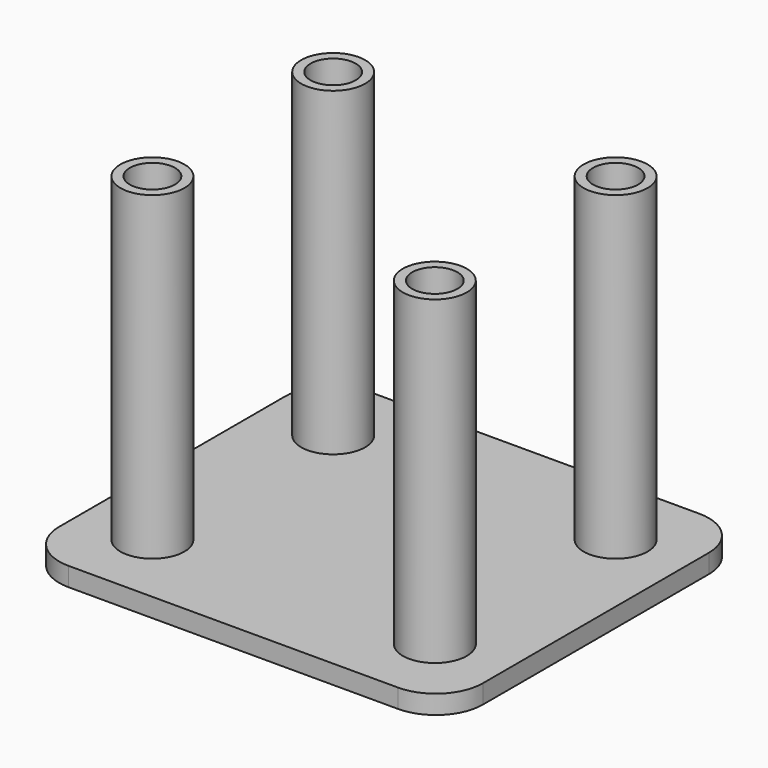
from build123d import *

# Parameters (mm, degrees)
F0_W     = 45
F0_H     = 40
F1_DEPTH = 2
F2_R     = 3.4
F3_DEPTH = 34
F4_R     = 2.4
F5_DEPTH = 30
F6_R     = 5


with BuildPart() as f1:
    # F0 (on Top) → F1 (new body)
    with BuildSketch(Plane.XY):
        Rectangle(F0_W, F0_H)
    extrude(amount=F1_DEPTH)

    # F2 (on face) → F3 (join)
    with BuildSketch(Plane.XY.offset(2)):
        with Locations((-15, 12)):
            Circle(F2_R)
        with Locations((15, 12)):
            Circle(F2_R)
        with Locations((15, -12)):
            Circle(F2_R)
        with Locations((-15, -12)):
            Circle(F2_R)
    extrude(amount=F3_DEPTH)

    # F4 (on face) → F5 (cut)
    with BuildSketch(Plane.XY.offset(36)):
        with Locations((-15, 12)):
            Circle(F4_R)
        with Locations((15, 12)):
            Circle(F4_R)
        with Locations((15, -12)):
            Circle(F4_R)
        with Locations((-15, -12)):
            Circle(F4_R)
    extrude(amount=-F5_DEPTH, mode=Mode.SUBTRACT)

    # F6
    f6_edges = [f1.edges().sort_by_distance(p)[0] for p in [
        (-22.5, -20, 1),
        (22.5, -20, 1),
        (22.5, 20, 1),
        (-22.5, 20, 1),
    ]]
    fillet(f6_edges, radius=F6_R)


solid = f1.part
